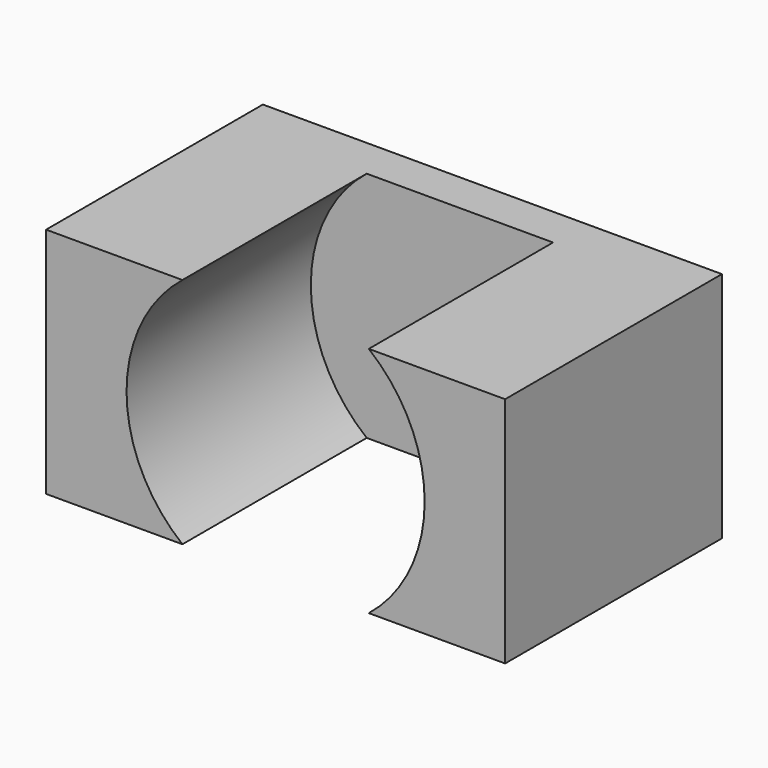
from build123d import *

# Parameters (mm, degrees)
F1_DEPTH = 3
F2_DEPTH = 20


with BuildPart() as f1:
    # F0 (on Front) → F1 (new body)
    with BuildSketch(Plane.XZ):
        with BuildLine():
            Line((6.877036, 8.585242), (-6.877036, 8.585242))
            ThreePointArc((-6.877036, 8.585242), (-11, 0), (-6.877036, -8.585242))
            Line((-6.877036, -8.585242), (6.877036, -8.585242))
            ThreePointArc((6.877036, -8.585242), (11, 0), (6.877036, 8.585242))
        make_face()
    extrude(amount=F1_DEPTH)

    # F0 (on Front) → F2 (join)
    with BuildSketch(Plane.XZ):
        with BuildLine():
            ThreePointArc((-6.877036, -8.585242), (-11, 0), (-6.877036, 8.585242))
            Line((-6.877036, 8.585242), (-16.940266, 8.585242))
            Line((-16.940266, 8.585242), (-16.940266, -8.585242))
            Line((-16.940266, -8.585242), (-6.877036, -8.585242))
        make_face()
        with BuildLine():
            Line((16.940266, 8.585242), (6.877036, 8.585242))
            ThreePointArc((6.877036, 8.585242), (11, 0), (6.877036, -8.585242))
            Line((6.877036, -8.585242), (16.940266, -8.585242))
            Line((16.940266, -8.585242), (16.940266, 8.585242))
        make_face()
    extrude(amount=F2_DEPTH)


solid = f1.part
